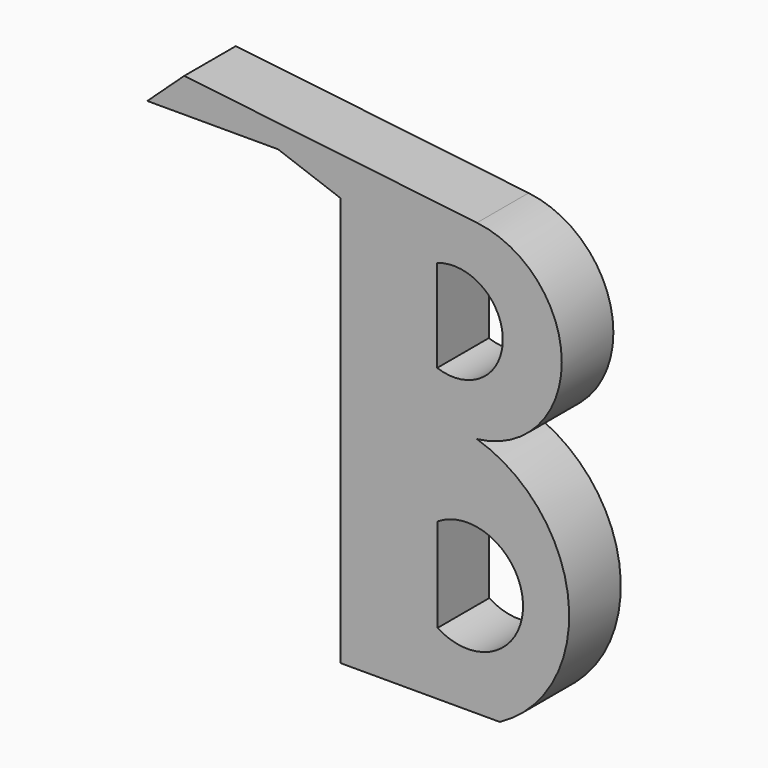
from build123d import *

# Parameters (mm, degrees)
F1_DEPTH = 6.35


with BuildPart() as f1:
    # F0 (on Front) → F1 (new body)
    with BuildSketch(Plane.XZ):
        with BuildLine():
            Line((-30.912954, 13.847885), (-24.758339, 11.609843))
            Line((-24.758339, 11.609843), (-24.758339, -28.674914))
            Line((-24.758339, -28.674914), (-9.092046, -28.674914))
            ThreePointArc((-9.092046, -28.674914), (-2.313351, -16.042001), (-11.330088, -4.895717))
            ThreePointArc((-11.330088, -4.895717), (-2.986758, 4.476084), (-11.330088, 13.847885))
            Line((-11.330088, 13.847885), (-40.144879, 17.204948))
            Line((-40.144879, 17.204948), (-43.781698, 13.847885))
            Line((-43.781698, 13.847885), (-30.912954, 13.847885))
        make_face()
        with BuildLine():
            Line((-15.211793, -22.520298), (-15.211793, -13.288374))
            ThreePointArc((-15.211793, -13.288374), (-6.797986, -17.904336), (-15.211793, -22.520298))
        make_face(mode=Mode.SUBTRACT)
        with BuildLine():
            Line((-15.246661, 0), (-15.246661, 9.092046))
            ThreePointArc((-15.246661, 9.092046), (-8.787818, 4.546023), (-15.246661, 0))
        make_face(mode=Mode.SUBTRACT)
    extrude(amount=F1_DEPTH)


solid = f1.part
